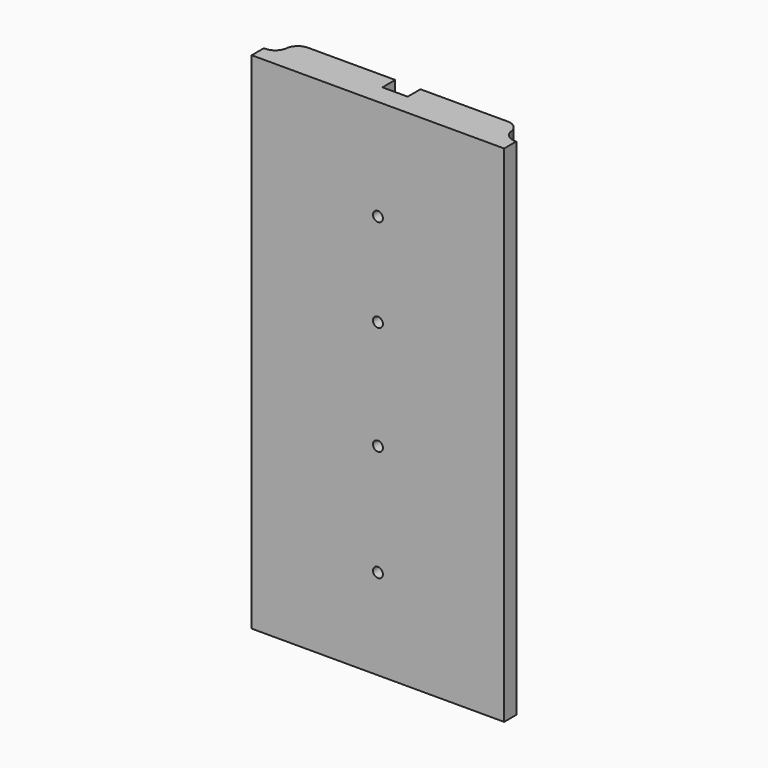
from build123d import *

# Parameters (mm, degrees)
F1_DEPTH = 101.6
F2_R     = 2.54
F3_R     = 2.54
F4_R     = 2.54
F5_R     = 2.54
F7_D     = 1.9939


with BuildPart() as f1:
    # F0 (on Top) → F1 (new body)
    with BuildSketch(Plane.XY):
        Polygon((-25.4, 0), (0, 0), (25.4, 0), (25.4, 3.048), (22.6301808, 3.048), (22.6301808, 7.5232392634), (2.54, 7.5232392634), (2.54, 4.2931226644), (0, 4.2931226644), (-2.54, 4.2931226644), (-2.54, 7.5232392634), (-22.6301808, 7.5232392634), (-22.6301808, 3.048), (-25.4, 3.048), align=None)
    extrude(amount=F1_DEPTH)

    # F2
    f2_edges = [f1.edges().sort_by_distance(p)[0] for p in [
        (22.630181, 7.523239, 50.8),
    ]]
    fillet(f2_edges, radius=F2_R)

    # F3
    f3_edges = [f1.edges().sort_by_distance(p)[0] for p in [
        (22.630181, 3.048, 50.8),
    ]]
    fillet(f3_edges, radius=F3_R)

    # F4
    f4_edges = [f1.edges().sort_by_distance(p)[0] for p in [
        (-22.630181, 7.523239, 50.8),
    ]]
    fillet(f4_edges, radius=F4_R)

    # F5
    f5_edges = [f1.edges().sort_by_distance(p)[0] for p in [
        (-22.630181, 3.048, 50.8),
        (-22.630181, 4.983239, 50.8),
    ]]
    fillet(f5_edges, radius=F5_R)

    # F7 (through all)
    with Locations(Plane.XZ):
        with Locations((0, 81.2863707542), (0, 62.5548958778), (0, 40.594484657), (0, 18.223406747)):
            Hole(F7_D / 2)


solid = f1.part
